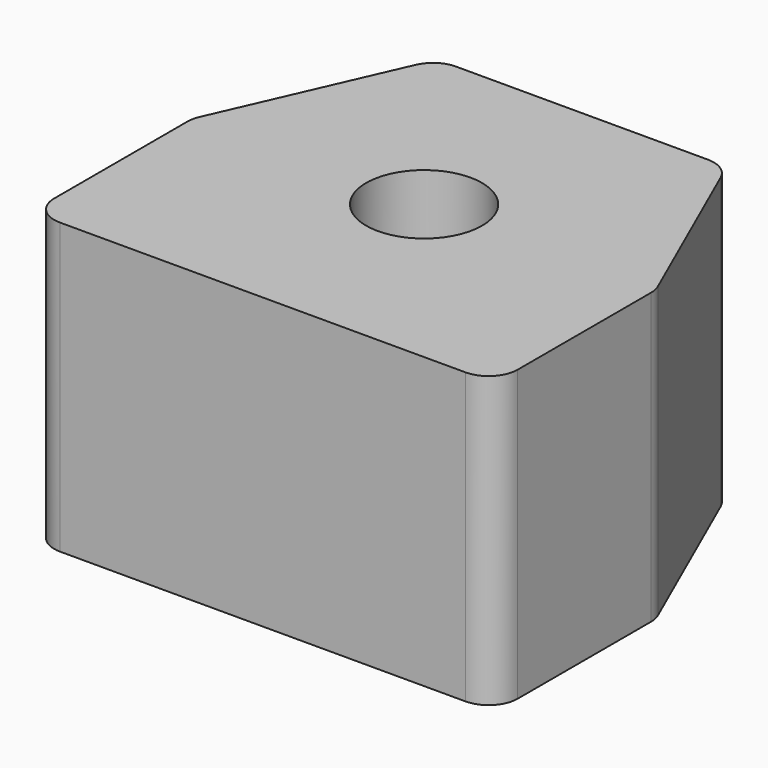
from build123d import *

# Parameters (mm, degrees)
F0_R     = 10.16
F1_DEPTH = 50.8
F2_R     = 5.08


with BuildPart() as f1:
    # F0 (on Top) → F1 (new body)
    with BuildSketch(Plane.XY):
        Polygon((-40.64, 0), (0, 0), (40.64, 0), (40.64, 35.370514), (25.4, 70), (-25.4, 70), (-40.64, 35.370514), align=None)
        with Locations((0, 35.370514)):
            Circle(F0_R, mode=Mode.SUBTRACT)
    extrude(amount=F1_DEPTH)

    # F2
    f2_edges = [f1.edges().sort_by_distance(p)[0] for p in [
        (40.64, 0, 25.4),
        (40.64, 35.370514, 25.4),
        (25.4, 70, 25.4),
        (-25.4, 70, 25.4),
        (-40.64, 35.370514, 25.4),
        (-40.64, 0, 25.4),
    ]]
    fillet(f2_edges, radius=F2_R)


solid = f1.part
